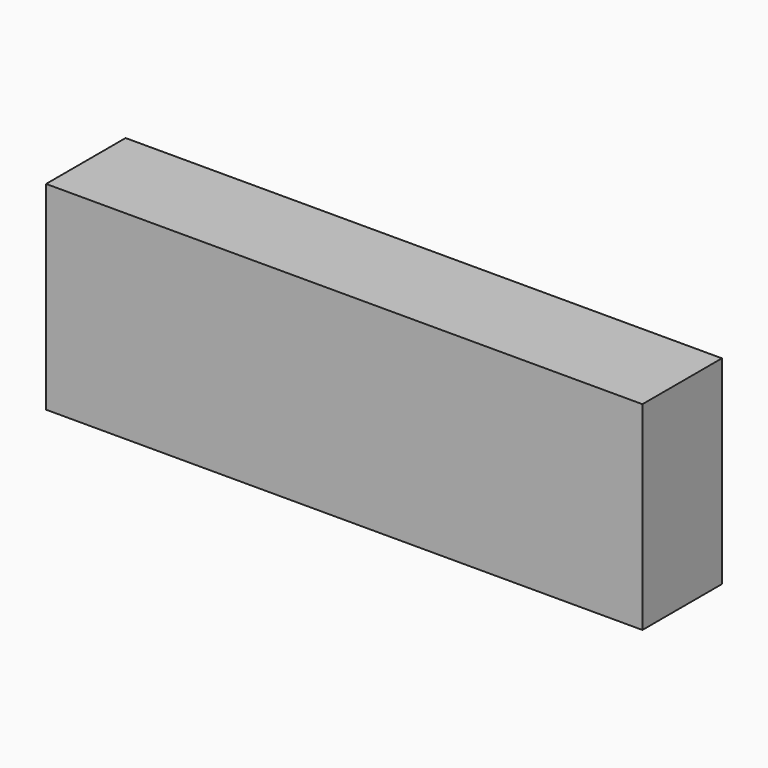
from build123d import *

# Parameters (mm, degrees)
SKETCH_W      = 150
SKETCH_H      = 25
EXTRUDE_DEPTH = 50


with BuildPart() as part:
    # Sketch → Extrude (new body)
    with BuildSketch(Plane.XY):
        Rectangle(SKETCH_W, SKETCH_H)
    extrude(amount=EXTRUDE_DEPTH)


solid = part.part
